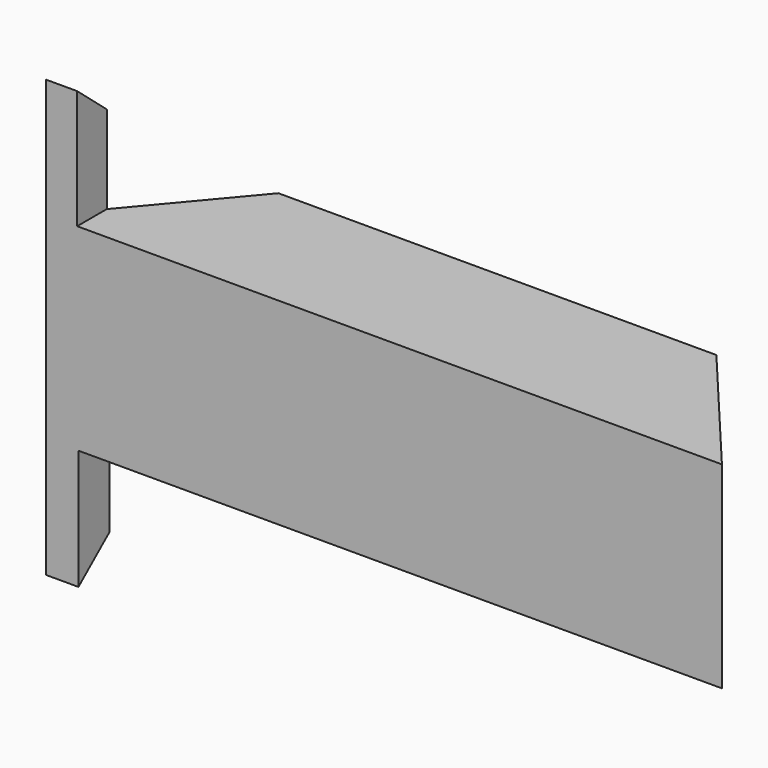
from build123d import *

# Parameters (mm, degrees)
F0_W     = 96.55572474
F0_H     = 43.4501469135
F1_DEPTH = 31.6610336304
F1_TAPER = -40
F2_W     = 167.0255586505
F2_H     = 38.3586026728
F2_W_2   = 162.8842428327
F2_H_2   = 31.8540707231
F3_DEPTH = 79.4451162219
F4_W     = 21.1209580302
F4_H     = 32.886043191
F5_DEPTH = 14.5127717406


with BuildPart() as f1:
    # F0 (on Front) → F1 (new body)
    with BuildSketch(Plane.XZ):
        Rectangle(F0_W, F0_H)
    extrude(amount=F1_DEPTH, taper=F1_TAPER)

    # F2 (on Front) → F3 (cut)
    with BuildSketch(Plane.XZ):
        with Locations((15.839908272, -40.9009512514)):
            Rectangle(F2_W, F2_H)
        with Locations((13.4780444205, 37.8784425557)):
            Rectangle(F2_W_2, F2_H_2)
    extrude(amount=F3_DEPTH, mode=Mode.SUBTRACT)

    # F4 (on Front) → F5 (cut)
    with BuildSketch(Plane.XZ):
        with Locations((-66.4090551436, 38.6971160769)):
            Rectangle(F4_W, F4_H)
    extrude(amount=F5_DEPTH, mode=Mode.SUBTRACT)


solid = f1.part
